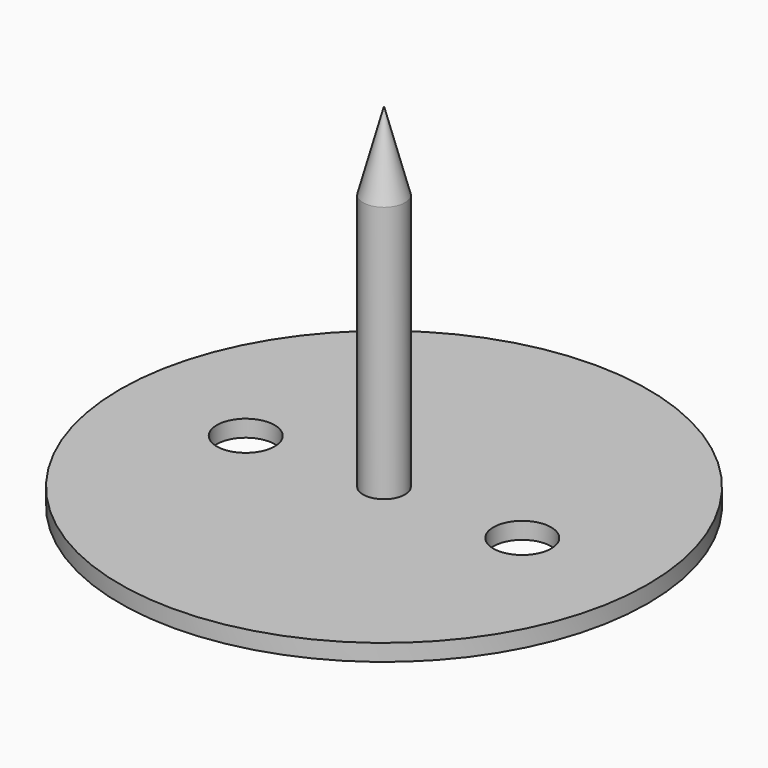
from build123d import *

# Parameters (mm, degrees)
F0_R     = 31.5
F0_R_2   = 3.45
F1_DEPTH = 2
F2_R     = 2.5
F3_DEPTH = 40
F4_SIZE2 = 9.3301270189
F4_SIZE  = 2.5


with BuildPart() as f1:
    # F0 (on Top) → F1 (new body)
    with BuildSketch(Plane.XY):
        Circle(F0_R)
        with Locations((-16.5, 0)):
            Circle(F0_R_2, mode=Mode.SUBTRACT)
        with Locations((16.5, 0)):
            Circle(F0_R_2, mode=Mode.SUBTRACT)
    extrude(amount=F1_DEPTH)

    # F2 (on face) → F3 (join)
    with BuildSketch(Plane.XY.offset(2)):
        Circle(F2_R)
    extrude(amount=F3_DEPTH)

    # F4
    f4_edges = [f1.edges().sort_by_distance(p)[0] for p in [
        (-2.5, 0, 42),
    ]]
    f4_side = f1.faces().sort_by_distance((0, 0, 42))[0]
    chamfer(f4_edges, length=F4_SIZE, length2=F4_SIZE2, reference=f4_side)


solid = f1.part
